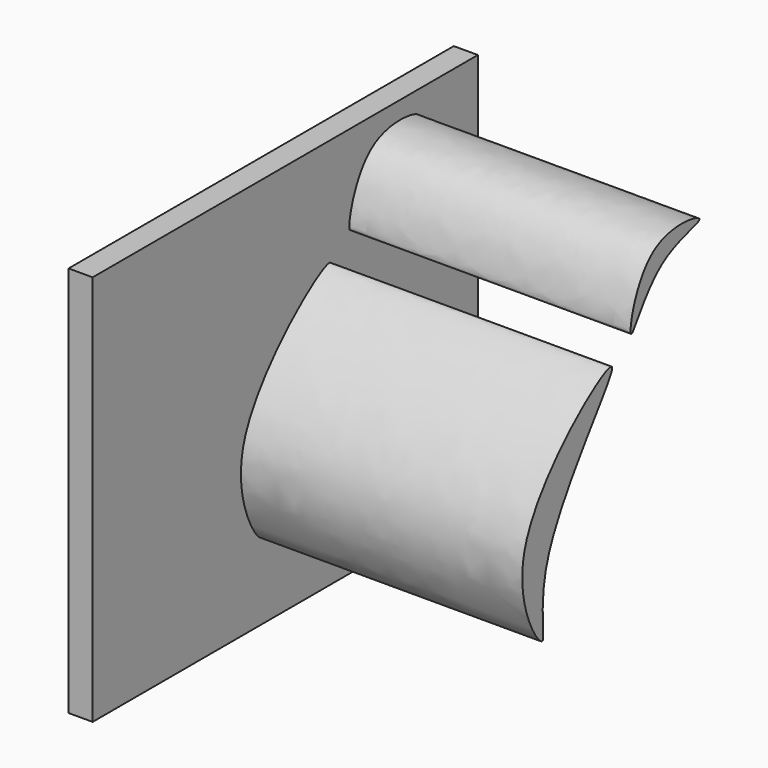
from build123d import *

# Parameters (mm, degrees)
F0_W     = 2
F0_H     = 40
F1_DEPTH = 32.512
F4_DEPTH = 23.368
F5_DEPTH = 23.368


with BuildPart() as f1:
    # F0 (on Top) → F1 (new body)
    with BuildSketch(Plane.XY):
        with Locations((-29.3286769457, -4.6882890165)):
            Rectangle(F0_W, F0_H)
    extrude(amount=F1_DEPTH)

    # F2 (on face) → F4 (join)
    with BuildSketch(Plane.YZ.offset(-28.3286769457)):
        with BuildLine():
            add(Edge.make_bspline(
                [(-7.2498763911, 6.4037409611), (-6.7968060002, 6.3416258929), (-8.9566216359, 12.8911335708), (6.4100905567, 29.2054242189), (-13.0431466461, 14.8857573284), (-7.7742350092, 6.4756295065), (-7.2498763911, 6.4037409611)],
                knots=[0, 0, 0, 0, 0.1926255925, 0.4849103443, 0.7770657904, 1, 1, 1, 1], degree=3))
        make_face()
    extrude(amount=F4_DEPTH)

    # F3 (on face) → F5 (join)
    with BuildSketch(Plane.YZ.offset(-28.3286769457)):
        with BuildLine():
            add(Edge.make_bspline(
                [(2.0112469792, 25.1230336726), (2.2621760216, 24.9001418505), (4.3688694301, 29.9626783783), (11.6831212131, 30.4862882962), (3.0711443223, 32.0820507404), (1.7418249366, 25.3623522043), (2.0112469792, 25.1230336726)],
                knots=[0, 0, 0, 0, 0.2501247989, 0.4851539395, 0.7314414721, 1, 1, 1, 1], degree=3))
        make_face()
    extrude(amount=F5_DEPTH)


solid = f1.part
